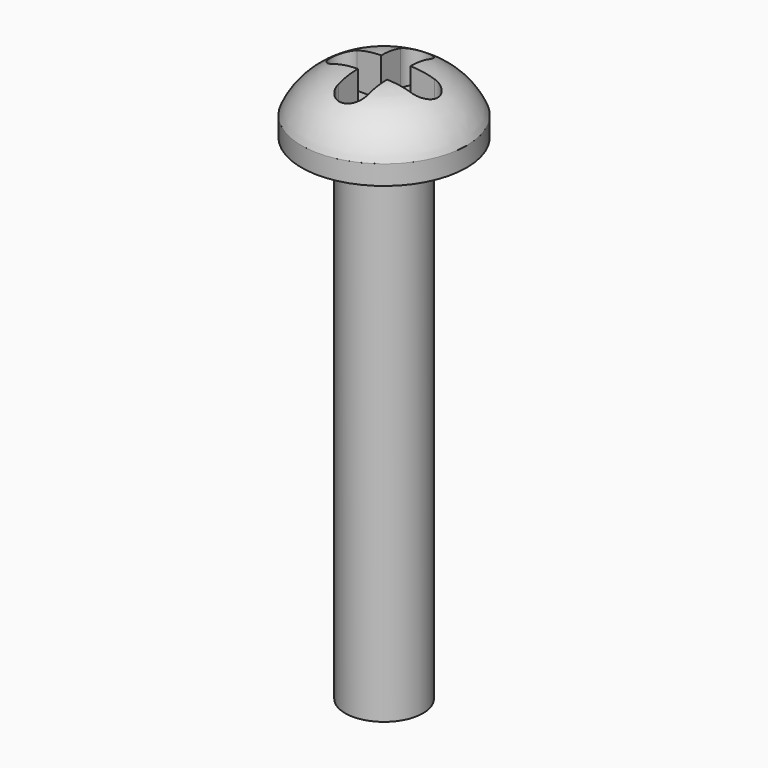
from build123d import *

# Parameters (mm, degrees)
POCKET004_DEPTH = 1
SKETCH013_R     = 1
PAD005_DEPTH    = 12.7


with BuildPart() as part:
    # Sketch011 → Revolution001 (revolve)
    with BuildSketch(Plane.XZ):
        with BuildLine():
            Line((0, 0), (0, 1.5748))
            Line((0, 1.5748), (0.5, 1.5748))
            ThreePointArc((2.1209, 0.5), (1.472434, 1.281687), (0.5, 1.5748))
            Line((2.1209, 0.5), (2.1209, 0))
            Line((2.1209, 0), (0, 0))
        make_face()
    revolve(axis=Axis((0, 0, 0), (0, 0, 1)))

    # Sketch012 (on Face1 of Revolution001) → Pocket004 (cut)
    with BuildSketch(Plane(origin=(0, 0, 1.5748), x_dir=(-1, 0, 0), z_dir=(0, 0, 1))):
        with BuildLine():
            ThreePointArc((0.375, 1), (0, 1.375), (-0.375, 1))
            Line((-0.375, 1), (-0.375, 0.375))
            Line((-0.375, 0.375), (-1, 0.375))
            ThreePointArc((-1, 0.375), (-1.375, 0), (-1, -0.375))
            Line((-1, -0.375), (-0.375, -0.375))
            Line((-0.375, -0.375), (-0.375, -1))
            ThreePointArc((-0.375, -1), (0, -1.375), (0.375, -1))
            Line((0.375, -1), (0.375, -0.375))
            Line((0.375, -0.375), (1, -0.375))
            ThreePointArc((1, -0.375), (1.375, 0), (1, 0.375))
            Line((1, 0.375), (0.375, 0.375))
            Line((0.375, 0.375), (0.375, 1))
        make_face()
    extrude(amount=-POCKET004_DEPTH, mode=Mode.SUBTRACT)

    # Sketch013 (on Face16 of Pocket004) → Pad005 (join)
    with BuildSketch(Plane(origin=(0, 0, 0), x_dir=(1, 0, 0), z_dir=(0, 0, -1))):
        Circle(SKETCH013_R)
    extrude(amount=PAD005_DEPTH)


with BuildPart() as part_1:
    # Body003 placement: moved
    add(part.part.moved(Location((14, 7, 7.75))))


solid = part_1.part
